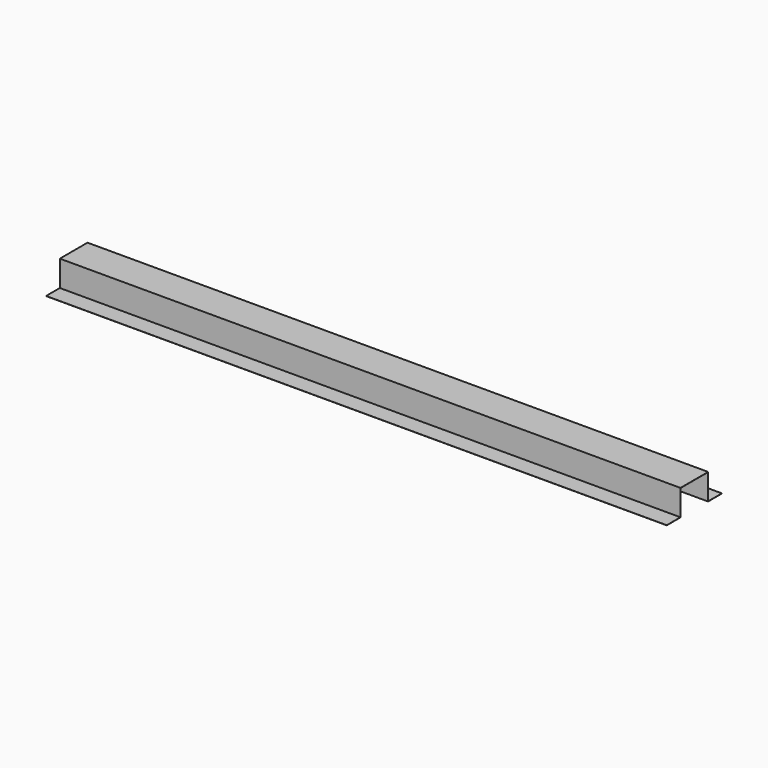
from build123d import *

# Parameters (mm, degrees)
F1_DEPTH = 457.2


with BuildPart() as f1:
    # F0 (on Right) → F1 (new body, symmetric)
    with BuildSketch(Plane.YZ):
        Polygon((50.8, 0.254), (50.8, 0.4572), (25.5016, 0.4572), (25.5016, 38.5572), (0, 38.5572), (-25.5016, 38.5572), (-25.5016, 0.4572), (-50.8, 0.4572), (-50.8, 0.254), (-25.2984, 0.254), (-25.2984, 38.354), (0, 38.354), (25.2984, 38.354), (25.2984, 0.254), (25.5016, 0.254), align=None)
    extrude(amount=F1_DEPTH, both=True)


solid = f1.part
